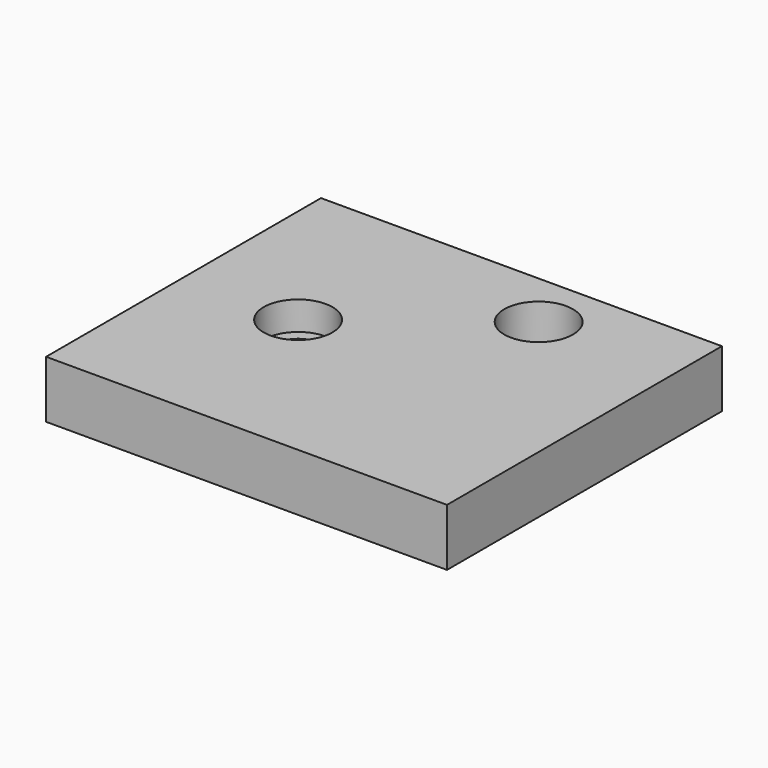
from build123d import *

# Parameters (mm, degrees)
F0_W     = 35
F0_H     = 30
F0_R     = 2
F0_R_2   = 3
F1_DEPTH = 5
F2_R     = 3
F3_DEPTH = 2.5


with BuildPart() as f1:
    # F0 (on Top) → F1 (new body)
    with BuildSketch(Plane.XY):
        Rectangle(F0_W, F0_H)
        with Locations((-7.5, 0)):
            Circle(F0_R, mode=Mode.SUBTRACT)
        with Locations((5.5, 10)):
            Circle(F0_R_2, mode=Mode.SUBTRACT)
    extrude(amount=F1_DEPTH)

    # F2 (on face) → F3 (cut)
    with BuildSketch(Plane.XY.offset(5)):
        with Locations((-7.5, 0)):
            Circle(F2_R)
    extrude(amount=-F3_DEPTH, mode=Mode.SUBTRACT)


solid = f1.part
